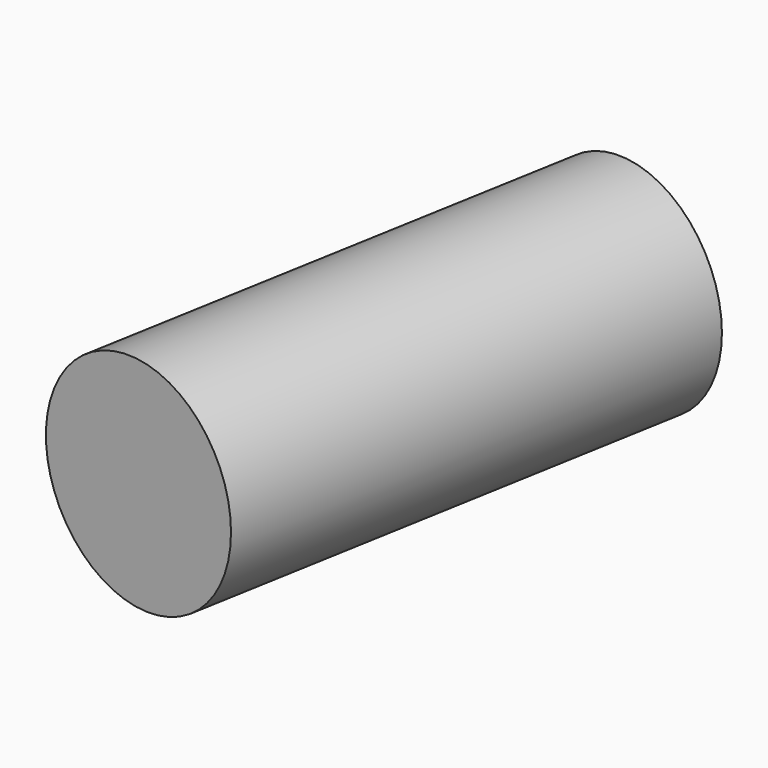
from build123d import *

# Parameters (mm, degrees)
CYLINDER035_R               = 1.25
CYLINDER035_DEPTH           = 14
CYLINDER035_ROLL_ANGLE      = -89.999776
CYLINDER035_PITCH_ANGLE     = 1.4e-05
CYLINDER035_PLACEMENT_ANGLE = -9.999925
CYLINDER028_R               = 3
CYLINDER028_DEPTH           = 14
CYLINDER028_ROLL_ANGLE      = -89.999776
CYLINDER028_PITCH_ANGLE     = 1.4e-05
CYLINDER028_PLACEMENT_ANGLE = -9.999925


with BuildPart() as cylinder035:
    # Cylinder035 → Cylinder035 (new body)
    with BuildSketch(Plane.XY):
        Circle(CYLINDER035_R)
    extrude(amount=CYLINDER035_DEPTH)


with BuildPart() as cylinder035_1:
    # Cylinder035 roll: moved
    add(cylinder035.part.rotate(Axis((0, 0, 0), (1, 0, 0)), CYLINDER035_ROLL_ANGLE))


with BuildPart() as cylinder035_2:
    # Cylinder035 pitch: moved
    add(cylinder035_1.part.rotate(Axis((0, 0, 0), (0, 1, 0)), CYLINDER035_PITCH_ANGLE))


with BuildPart() as cylinder035_3:
    # Cylinder035 placement: moved
    add(cylinder035_2.part.moved(Location((32.058057, -23.765835, 25.500009))).rotate(Axis((32.058057, -23.765835, 25.500009), (0, 0, 1)), CYLINDER035_PLACEMENT_ANGLE))


with BuildPart() as cut033:
    # Cylinder028 → Cylinder028 (new body)
    with BuildSketch(Plane.XY):
        Circle(CYLINDER028_R)
    extrude(amount=CYLINDER028_DEPTH)


with BuildPart() as cut033_1:
    # Cylinder028 roll: moved
    add(cut033.part.rotate(Axis((0, 0, 0), (1, 0, 0)), CYLINDER028_ROLL_ANGLE))


with BuildPart() as cut033_2:
    # Cylinder028 pitch: moved
    add(cut033_1.part.rotate(Axis((0, 0, 0), (0, 1, 0)), CYLINDER028_PITCH_ANGLE))


with BuildPart() as cut033_3:
    # Cylinder028 placement: moved
    add(cut033_2.part.moved(Location((31.710764, -25.735451, 25.500001))).rotate(Axis((31.710764, -25.735451, 25.500001), (0, 0, 1)), CYLINDER028_PLACEMENT_ANGLE))

    # Cut033: cut Cylinder035
    add(cylinder035_3.part, mode=Mode.SUBTRACT)


solid = cut033_3.part
